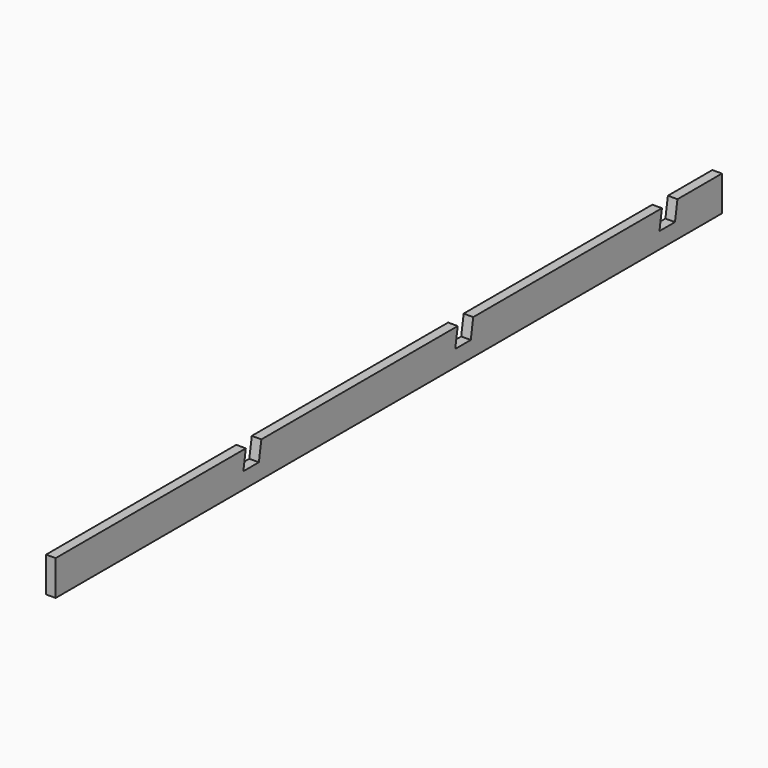
from build123d import *

# Parameters (mm, degrees)
F0_W     = 38.1
F0_H     = 139.7
F1_DEPTH = 1657.35
F3_DEPTH = 127


with BuildPart() as f1:
    # F0 (on Front) → F1 (new body, symmetric)
    with BuildSketch(Plane.XZ):
        Rectangle(F0_W, F0_H)
    extrude(amount=F1_DEPTH, both=True)

    # F2 (on Right) → F3 (cut, symmetric)
    with BuildSketch(Plane.YZ):
        Polygon((-633.9850649967, 69.85), (-711.2, 69.85), (-723.5142111681, -5.3484055902), (-646.2992761648, -5.3484055902), align=None)
        Polygon((420.1149350033, 69.85), (342.9, 69.85), (330.5857888319, -5.3484055902), (407.8007238352, -5.3484055902), align=None)
        Polygon((1436.1149350033, 69.85), (1358.9, 69.85), (1346.5857888319, -5.3484055902), (1423.8007238352, -5.3484055902), align=None)
    extrude(amount=F3_DEPTH, both=True, mode=Mode.SUBTRACT)


solid = f1.part
